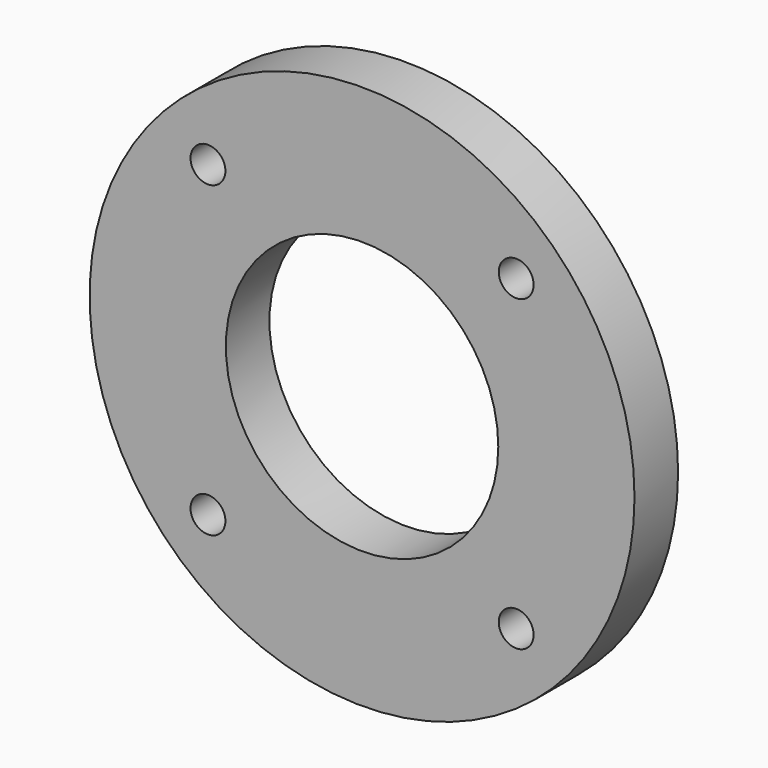
from build123d import *

# Parameters (mm, degrees)
F0_R     = 25
F0_R_2   = 1.6
F1_DEPTH = 5
F2_R     = 12.5
F3_DEPTH = 51.2


with BuildPart() as f1:
    # F0 (on Front) → F1 (new body)
    with BuildSketch(Plane.XZ):
        Circle(F0_R)
        with Locations((-14.142136, -14.142136)):
            Circle(F0_R_2, mode=Mode.SUBTRACT)
        with Locations((14.142136, -14.142136)):
            Circle(F0_R_2, mode=Mode.SUBTRACT)
        with Locations((-14.142136, 14.142136)):
            Circle(F0_R_2, mode=Mode.SUBTRACT)
        with Locations((14.142136, 14.142136)):
            Circle(F0_R_2, mode=Mode.SUBTRACT)
    extrude(amount=F1_DEPTH)

    # F2 (on face) → F3 (cut)
    with BuildSketch(Plane.XZ.offset(5)):
        Circle(F2_R)
    extrude(amount=-F3_DEPTH, mode=Mode.SUBTRACT)


solid = f1.part
